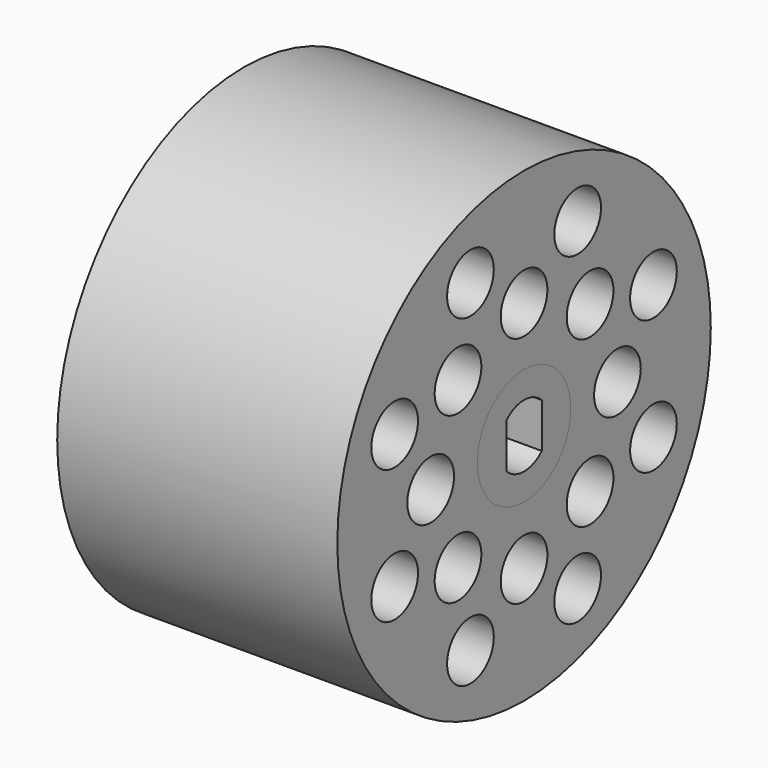
from build123d import *

# Parameters (mm, degrees)
F0_R     = 5
F1_DEPTH = 25
F2_START = 1
F0_R_2   = 20
F0_R_3   = 2.5
F2_DEPTH = 24


with BuildPart() as f1:
    # F0 (on Right) → F1 (new body)
    with BuildSketch(Plane.YZ):
        Circle(F0_R)
        with BuildLine():
            ThreePointArc((1.9, -1.9183326093), (0, -2.7), (-1.9, -1.9183326093))
            Line((-1.9, -1.9183326093), (-1.9, 1.9183326093))
            ThreePointArc((-1.9, 1.9183326093), (0, 2.7), (1.9, 1.9183326093))
            Line((1.9, 1.9183326093), (1.9, -1.9183326093))
        make_face(mode=Mode.SUBTRACT)
    extrude(amount=F1_DEPTH)


with BuildPart() as f2:
    # F0 (on Right) → F2 (new body)
    with BuildSketch(Plane.YZ.offset(F2_START)):
        Circle(F0_R_2)
        with Locations((-5.7402514855, -13.8581929877)):
            Circle(F0_R_3, mode=Mode.SUBTRACT)
        with Locations((-13.8581929877, -5.7402514855)):
            Circle(F0_R_3, mode=Mode.SUBTRACT)
        with Locations((-7.0710678119, -7.0710678119)):
            Circle(F0_R_3, mode=Mode.SUBTRACT)
        with Locations((5.7402514855, -13.8581929877)):
            Circle(F0_R_3, mode=Mode.SUBTRACT)
        with Locations((0, -10)):
            Circle(F0_R_3, mode=Mode.SUBTRACT)
        with Locations((7.0710678119, -7.0710678119)):
            Circle(F0_R_3, mode=Mode.SUBTRACT)
        with Locations((13.8581929877, -5.7402514855)):
            Circle(F0_R_3, mode=Mode.SUBTRACT)
        with Locations((-13.8581929877, 5.7402514855)):
            Circle(F0_R_3, mode=Mode.SUBTRACT)
        with Locations((-10, 0)):
            Circle(F0_R_3, mode=Mode.SUBTRACT)
        with Locations((-7.0710678119, 7.0710678119)):
            Circle(F0_R_3, mode=Mode.SUBTRACT)
        with Locations((-5.7402514855, 13.8581929877)):
            Circle(F0_R_3, mode=Mode.SUBTRACT)
        Circle(F0_R, mode=Mode.SUBTRACT)
        with Locations((7.0710678119, 7.0710678119)):
            Circle(F0_R_3, mode=Mode.SUBTRACT)
        with Locations((10, 0)):
            Circle(F0_R_3, mode=Mode.SUBTRACT)
        with Locations((13.8581929877, 5.7402514855)):
            Circle(F0_R_3, mode=Mode.SUBTRACT)
        with Locations((0, 10)):
            Circle(F0_R_3, mode=Mode.SUBTRACT)
        with Locations((5.7402514855, 13.8581929877)):
            Circle(F0_R_3, mode=Mode.SUBTRACT)
    extrude(amount=F2_DEPTH)


solid = Compound([f1.part, f2.part])
